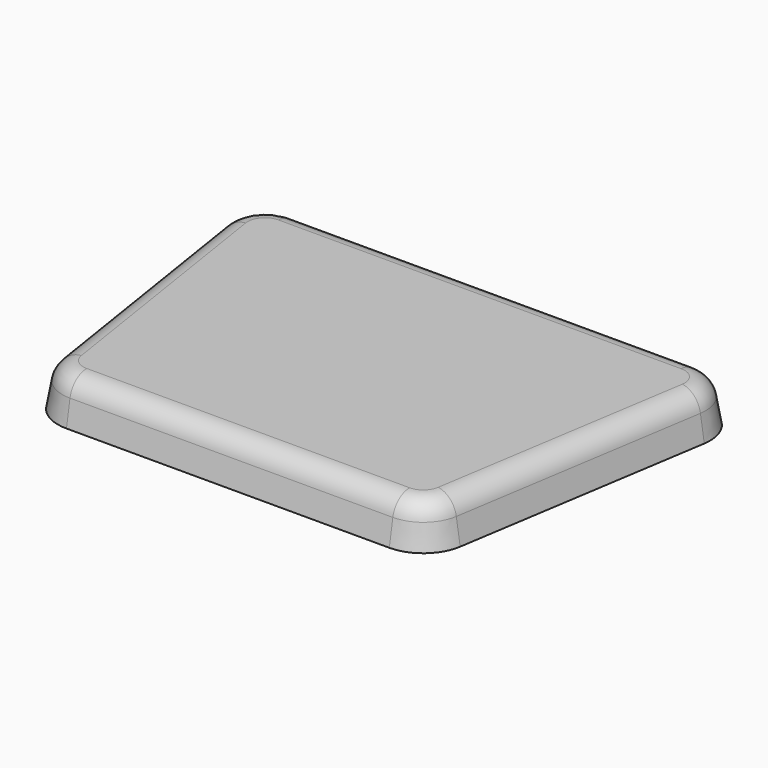
from build123d import *

# Parameters (mm, degrees)
F1_DEPTH = 5.08
F1_TAPER = 10
F2_R     = 2.54


with BuildPart() as f1:
    # F0 (on Top) → F1 (new body)
    with BuildSketch(Plane.XY):
        with BuildLine():
            Line((6.4160963133, 22.1475019915), (-17.6241308373, 22.1475019915))
            Line((-17.6241308373, 22.1475019915), (-41.6643579878, 22.1475019915))
            ThreePointArc((-41.6643579878, 22.1475019915), (-45.5238998144, 20.370581901), (-46.6834032899, 16.2829102154))
            Line((-46.6834032899, 16.2829102154), (-41.9186809381, -14.1970897846))
            ThreePointArc((-41.9186809381, -14.1970897846), (-40.2027155455, -17.2720398351), (-36.899635636, -18.4924980085))
            Line((-36.899635636, -18.4924980085), (-18.7403478838, -18.4924980085))
            Line((-18.7403478838, -18.4924980085), (-16.5079137907, -18.4924980085))
            Line((-16.5079137907, -18.4924980085), (1.6513739614, -18.4924980085))
            ThreePointArc((1.6513739614, -18.4924980085), (4.9544538709, -17.2720398351), (6.6704192636, -14.1970897846))
            Line((6.6704192636, -14.1970897846), (11.4351416154, 16.2829102154))
            ThreePointArc((11.4351416154, 16.2829102154), (10.2756381399, 20.370581901), (6.4160963133, 22.1475019915))
        make_face()
    extrude(amount=F1_DEPTH, taper=F1_TAPER)

    # F2
    f2_edges = [f1.edges().sort_by_distance(p)[0] for p in [
        (9.595097, 19.78816, 5.08),
        (-17.624131, 21.251761, 5.08),
        (-44.843358, 19.78816, 5.08),
        (-43.416049, 1.181255, 5.08),
        (-39.620293, -16.591498, 5.08),
        (-17.624131, -17.596757, 5.08),
        (4.372032, -16.591498, 5.08),
        (8.167787, 1.181255, 5.08),
    ]]
    fillet(f2_edges, radius=F2_R)


solid = f1.part
